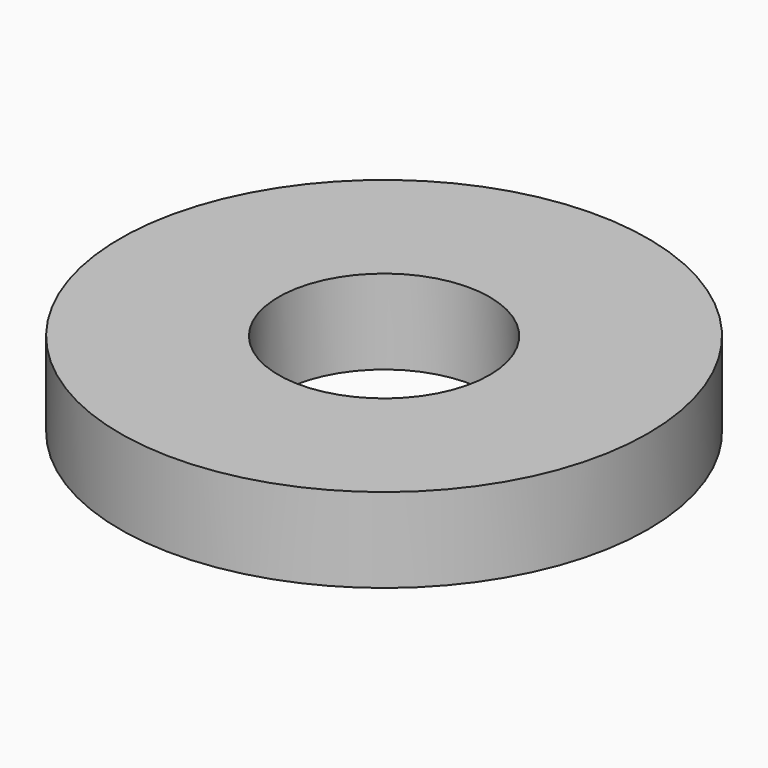
from build123d import *

# Parameters (mm, degrees)
SKETCH_1_R     = 37.5
PAD_1_DEPTH    = 12
SKETCH_2_R     = 15
POCKET_2_DEPTH = 12.001


with BuildPart() as part:
    # Sketch_1 → Pad_1 (new body)
    with BuildSketch(Plane.XY):
        Circle(SKETCH_1_R)
    extrude(amount=PAD_1_DEPTH)

    # Sketch_2 (on Face3 of Pad_1) → Pocket_2 (cut, through all)
    with BuildSketch(Plane.XY.offset(12)):
        Circle(SKETCH_2_R)
    extrude(amount=-POCKET_2_DEPTH, mode=Mode.SUBTRACT)


solid = part.part
